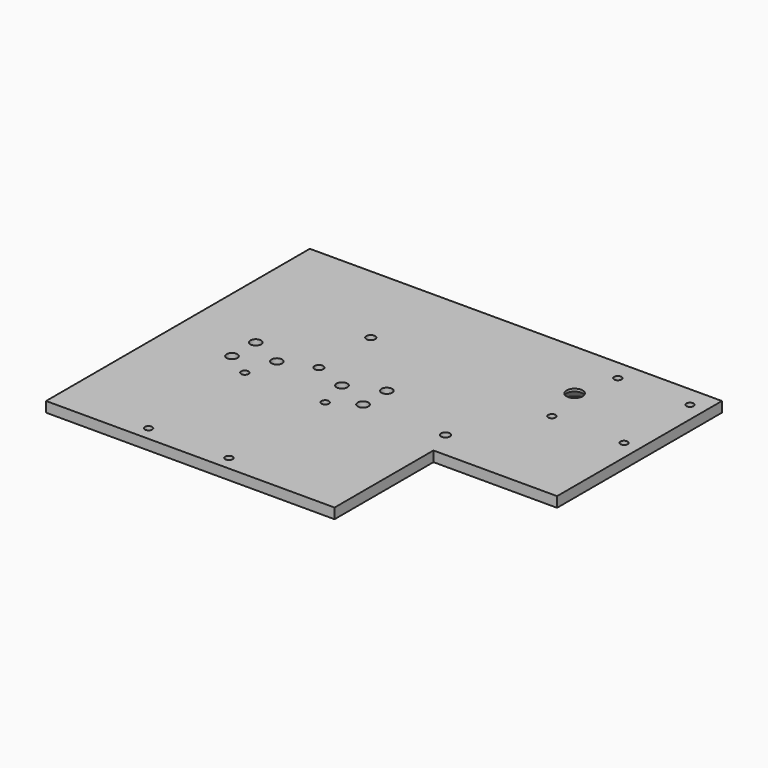
from build123d import *

# Parameters (mm, degrees)
F0_W            = 127
F0_H            = 3.175
F1_DEPTH        = 50.8
F3_D            = 3.3
F4_W            = 38.1
F4_H            = 38.1
F5_DEPTH        = 3.176
F7_D            = 2.2606
F10_D           = 2.2606
F12_D           = 2.7051
F14_D           = 4.9784
F14_CSINK_D     = 9.1186
F14_CSINK_ANGLE = 82


with BuildPart() as f1:
    # F0 (on Front) → F1 (new body, symmetric)
    with BuildSketch(Plane.XZ):
        with Locations((-63.5, 1.5875)):
            Rectangle(F0_W, F0_H)
    extrude(amount=F1_DEPTH, both=True)

    # F3 (through all)
    with Locations(Plane.XY.offset(3.175)):
        with Locations((-66.294, 4.572), (-66.294, -4.572), (-76.454, 0), (-96.52, 0), (-106.68, 4.572), (-106.68, -4.572)):
            Hole(F3_D / 2)

    # F4 (on face) → F5 (cut, through all)
    with BuildSketch(Plane.XY.offset(3.175)):
        with Locations((-19.05, -31.75)):
            Rectangle(F4_W, F4_H)
    extrude(amount=-F5_DEPTH, mode=Mode.SUBTRACT)

    # F7 (through all)
    with Locations(Plane.XY.offset(3.175)):
        with Locations((-4.7625, 19.05), (-26.9875, 19.05), (-26.9875, 44.45), (-4.7625, 44.45)):
            Hole(F7_D / 2)

    # F10 (through all)
    with Locations(Plane.XY.offset(3.175)):
        with Locations((-74.1045, -46.482), (-98.8695, -46.482), (-98.8695, -9.398), (-74.1045, -9.398)):
            Hole(F10_D / 2)

    # F12 (through all)
    with Locations(Plane.XY.offset(3.175)):
        with Locations((-40.894, -4.572), (-86.614, 3.81), (-86.614, 23.81)):
            Hole(F12_D / 2)

    # F14 (through all)
    with Locations(Plane(origin=(0, 0, 0), x_dir=(1, 0, 0), z_dir=(0, 0, -1))):
        with Locations((-30.1625, -31.75)):
            CounterSinkHole(F14_D / 2, F14_CSINK_D / 2, counter_sink_angle=F14_CSINK_ANGLE)


solid = f1.part
